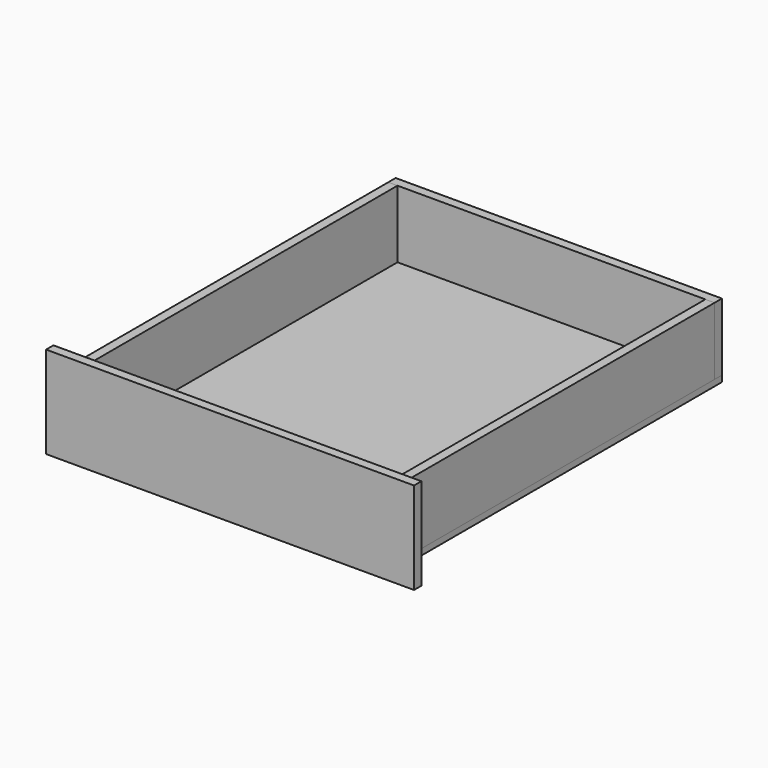
from build123d import *

# Parameters (mm, degrees)
F0_W     = 19.05
F0_H     = 812.8
F1_DEPTH = 139.7
F2_W     = 675.64
F2_H     = 19.05
F3_DEPTH = 139.7
F4_W     = 675.64
F4_H     = 831.85
F5_DEPTH = 12.7
F6_W     = 762
F6_H     = 190.5
F7_DEPTH = 19.05


with BuildPart() as f1:
    # F0 (on Top) → F1 (new body)
    with BuildSketch(Plane.XY):
        with Locations((328.295, 406.4)):
            Rectangle(F0_W, F0_H)
    extrude(amount=F1_DEPTH)


with BuildPart() as f1b:
    # F0 (on Top) → F1, piece 2 (new body)
    with BuildSketch(Plane.XY):
        with Locations((-328.295, 406.4)):
            Rectangle(F0_W, F0_H)
    extrude(amount=F1_DEPTH)


with BuildPart() as f3:
    # F2 (on Top) → F3 (new body)
    with BuildSketch(Plane.XY):
        with Locations((0, 822.325)):
            Rectangle(F2_W, F2_H)
    extrude(amount=F3_DEPTH)


with BuildPart() as f5:
    # F4 (on Top) → F5 (new body)
    with BuildSketch(Plane.XY):
        with Locations((0, 415.925)):
            Rectangle(F4_W, F4_H)
    extrude(amount=-F5_DEPTH)


with BuildPart() as f7:
    # F6 (on Front) → F7 (new body)
    with BuildSketch(Plane.XZ):
        with Locations((0, 63.5)):
            Rectangle(F6_W, F6_H)
    extrude(amount=F7_DEPTH)


solid = Compound([f1.part, f1b.part, f3.part, f5.part, f7.part])
